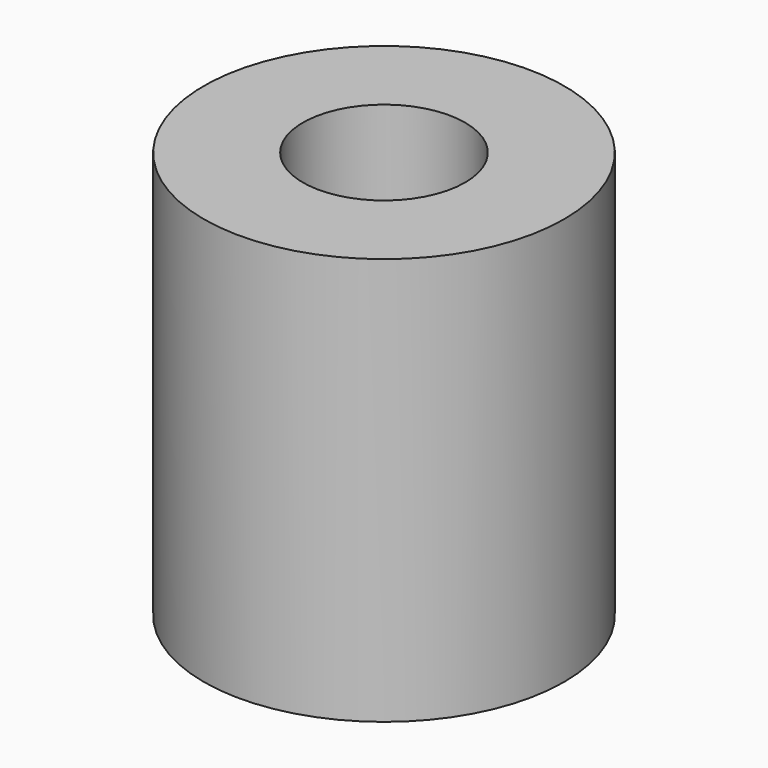
from build123d import *

# Parameters (mm, degrees)
SKETCH_R     = 5
PAD_DEPTH    = 11.3
SKETCH001_R  = 2.25
POCKET_DEPTH = 11.301


with BuildPart() as part:
    # Sketch → Pad (new body)
    with BuildSketch(Plane.XY):
        Circle(SKETCH_R)
    extrude(amount=PAD_DEPTH)

    # Sketch001 → Pocket (cut, through all)
    with BuildSketch(Plane.XY.offset(11.3)):
        Circle(SKETCH001_R)
    extrude(amount=-POCKET_DEPTH, mode=Mode.SUBTRACT)


solid = part.part
